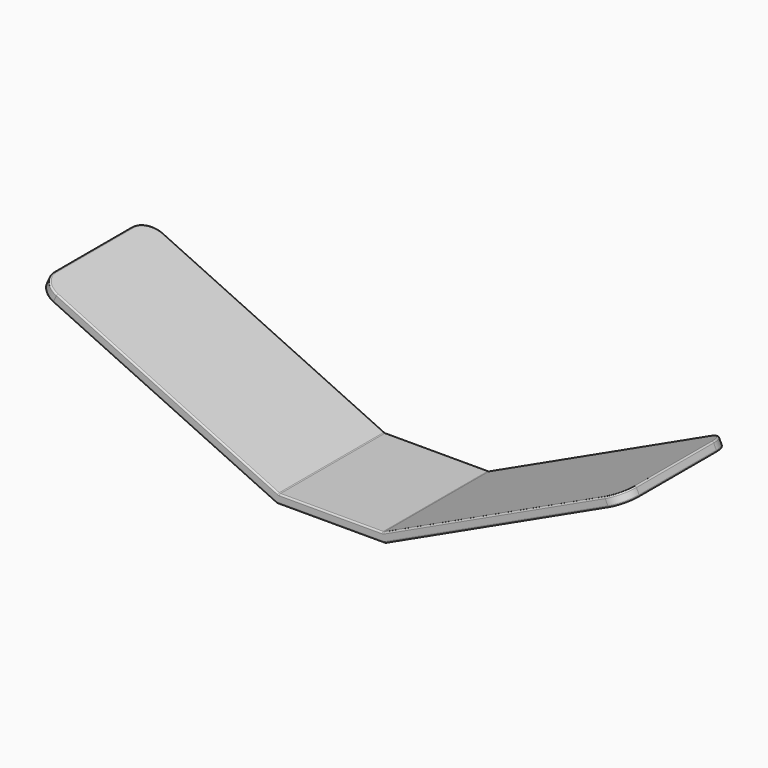
from build123d import *

# Parameters (mm, degrees)
F1_DEPTH = 43.7
F2_R     = 6
F3_R     = 1
F4_R     = 0.5


with BuildPart() as f1:
    # F0 (on Front) → F1 (new body)
    with BuildSketch(Plane.XZ):
        Polygon((-17.729146, 0), (17.770854, 0), (96.619631, 36.767789), (95.351776, 39.486712), (17.10577, 3), (-17.064062, 3), (-95.310069, 39.486712), (-96.577924, 36.767789), align=None)
    extrude(amount=F1_DEPTH)

    # F2
    f2_edges = [f1.edges().sort_by_distance(p)[0] for p in [
        (-95.943996, -43.7, 38.12725),
        (-95.943996, 0, 38.12725),
        (95.985704, 0, 38.12725),
        (95.985704, -43.7, 38.12725),
    ]]
    fillet(f2_edges, radius=F2_R)

    # F3
    f3_edges = [f1.edges().sort_by_distance(p)[0] for p in [
        (17.770854, -21.85, 0),
        (-17.729146, -21.85, 0),
        (17.10577, -21.85, 3),
        (-17.064062, -21.85, 3),
    ]]
    fillet(f3_edges, radius=F3_R)

    # F4
    f4_edges = [f1.edges().sort_by_distance(p)[0] for p in [
        (-53.568604, 0, 20.022347),
        (0.020854, 0, 3),
        (-54.535074, 0, 17.162886),
        (-17.93007, -21.85, 0.093692),
        (-94.985215, -1.757359, 36.025097),
        (-54.535074, -43.7, 17.162886),
        (-96.577924, -21.85, 36.767789),
        (-94.985215, -41.942641, 36.025097),
    ]]
    fillet(f4_edges, radius=F4_R)


solid = f1.part
